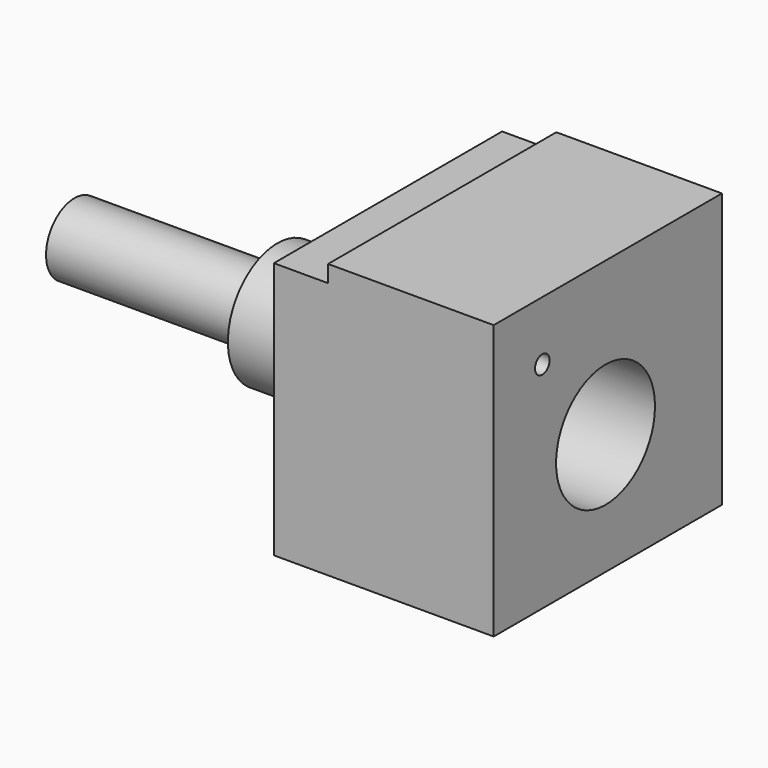
from build123d import *

# Parameters (mm, degrees)
F0_W          = 84.2324148785
F0_H          = 75.9502873162
F0_R          = 18.25
F0_R_2        = 2.6835567487
F1_DEPTH      = 64.9
F2_START      = 16
F0_H_2        = 5
F2_DEPTH      = 48.9
F0_R_3        = 10.5
F3_DEPTH      = 32
F3_DEPTH_BACK = 18.1
F4_DEPTH      = 91.9


with BuildPart() as f1:
    # F0 (on Right) → F1 (new body)
    with BuildSketch(Plane.YZ):
        with Locations((0.8405496071, 2.2748563419)):
            Rectangle(F0_W, F0_H)
        Circle(F0_R, mode=Mode.SUBTRACT)
        with Locations((-23.3325695414, 27.7426332311)):
            Circle(F0_R_2, mode=Mode.SUBTRACT)
    extrude(amount=F1_DEPTH)

    # F0 (on Right) → F2 (join)
    with BuildSketch(Plane.YZ.offset(F2_START)):
        with Locations((0.8405496071, 42.75)):
            Rectangle(F0_W, F0_H_2)
    extrude(amount=F2_DEPTH)

    # F0 (on Right) → F3 (join, two sides)
    with BuildSketch(Plane.YZ) as f3_sk:
        Circle(F0_R)
        Circle(F0_R_3, mode=Mode.SUBTRACT)
    extrude(amount=-F3_DEPTH)
    extrude(f3_sk.sketch, amount=F3_DEPTH_BACK)


with BuildPart() as f4:
    # F0 (on Right) → F4 (new body)
    with BuildSketch(Plane.YZ):
        Circle(F0_R_3)
    extrude(amount=-F4_DEPTH)


solid = Compound([f1.part, f4.part])
